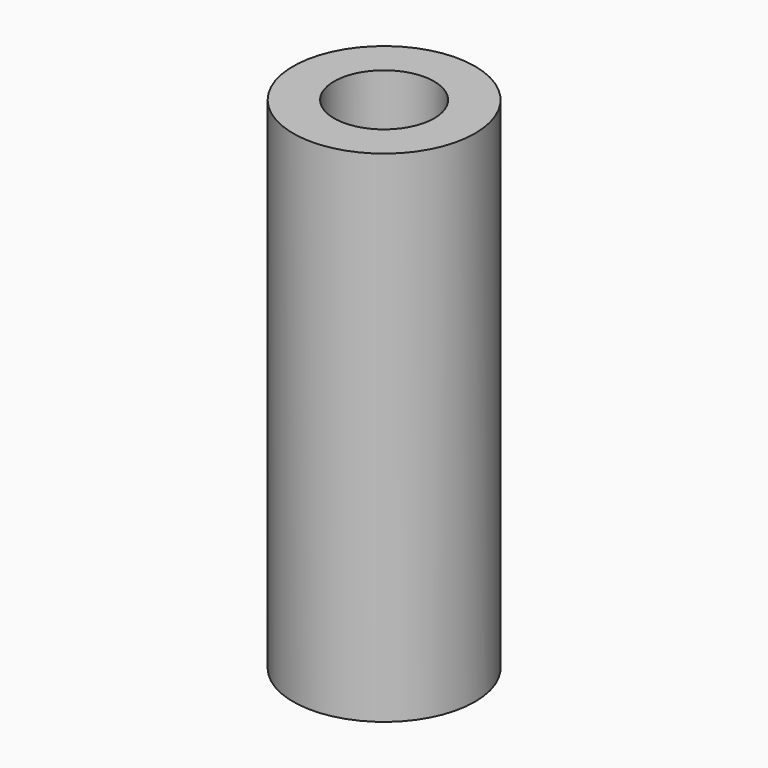
from build123d import *

# Parameters (mm, degrees)
SKETCH_R   = 4
SKETCH_R_2 = 2.2
PAD_DEPTH  = 22


with BuildPart() as part:
    # Sketch → Pad (new body)
    with BuildSketch(Plane.XY):
        Circle(SKETCH_R)
        Circle(SKETCH_R_2, mode=Mode.SUBTRACT)
    extrude(amount=PAD_DEPTH)


solid = part.part
